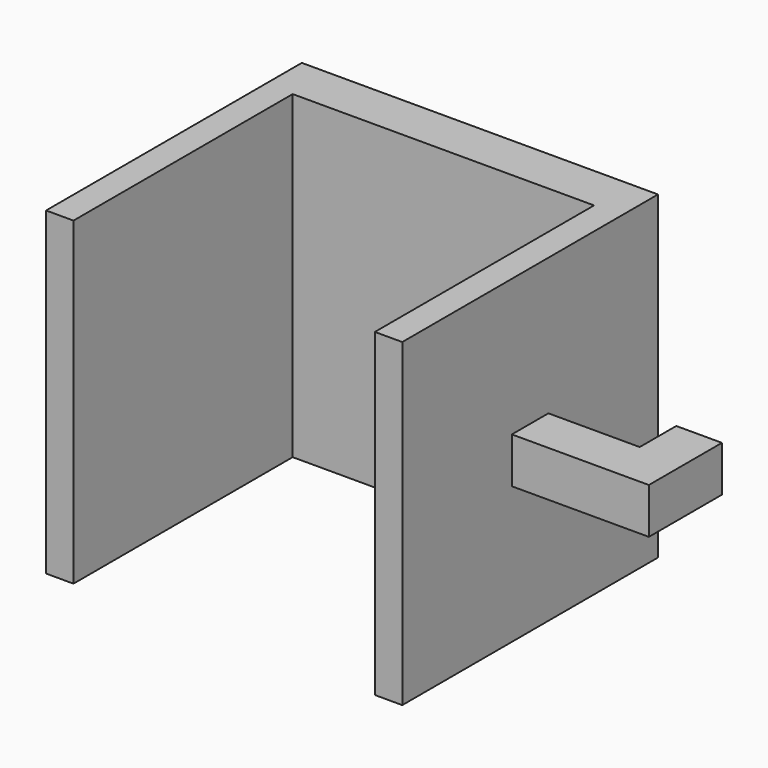
from build123d import *

# Parameters (mm, degrees)
F0_W     = 39
F0_H     = 35
F1_DEPTH = 35
F2_W     = 33
F2_H     = 35
F3_DEPTH = 30
F4_W     = 5
F4_H     = 5
F5_DEPTH = 15
F6_W     = 5
F6_H     = 5
F7_DEPTH = 5


with BuildPart() as f1:
    # F0 (on Front) → F1 (new body)
    with BuildSketch(Plane.XZ):
        with Locations((-52.531138, 28.322564)):
            Rectangle(F0_W, F0_H)
    extrude(amount=F1_DEPTH)

    # F2 (on face) → F3 (cut)
    with BuildSketch(Plane.XZ.offset(35)):
        with Locations((-52.531138, 28.322564)):
            Rectangle(F2_W, F2_H)
    extrude(amount=-F3_DEPTH, mode=Mode.SUBTRACT)

    # F4 (on face) → F5 (join)
    with BuildSketch(Plane.YZ.offset(-33.031138)):
        with Locations((-17.5, 28.322564)):
            Rectangle(F4_W, F4_H)
    extrude(amount=F5_DEPTH)

    # F6 (on face) → F7 (join)
    with BuildSketch(Plane.YZ.offset(-18.031138)):
        with Locations((-12.5, 28.322564)):
            Rectangle(F6_W, F6_H)
    extrude(amount=-F7_DEPTH)


solid = f1.part
